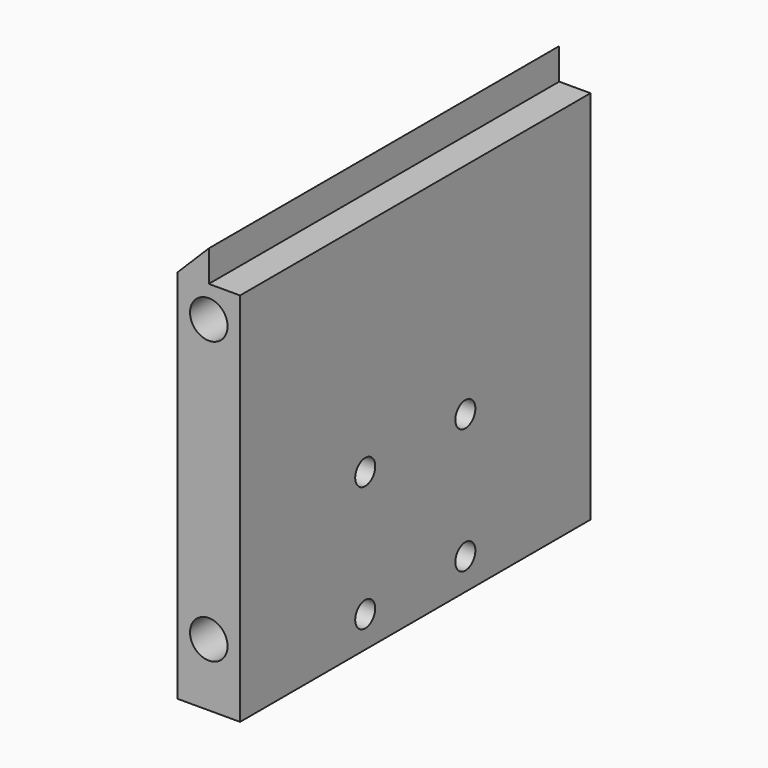
from build123d import *

# Parameters (mm, degrees)
F1_DEPTH  = 70
F3_R      = 2
F4_DEPTH  = 25
F6_R      = 3
F7_DEPTH  = 20
F8_R      = 3
F9_DEPTH  = 20
F10_R     = 3
F11_DEPTH = 20
F12_R     = 3
F13_DEPTH = 20
F2_R      = 2
F14_DEPTH = 10
F15_DEPTH = 25


with BuildPart() as f1:
    # F0 (on Front) → F1 (new body)
    with BuildSketch(Plane.XZ):
        Polygon((-5, 27.5), (-5, -32.5), (5, -32.5), (5, 27.5), (0, 27.5), (0, 32.5), align=None)
    extrude(amount=F1_DEPTH)

    # F3 (on face) → F4 (cut)
    with BuildSketch(Plane.YZ.offset(5)):
        with Locations((-45, -27.5)):
            Circle(F3_R)
        with Locations((-45, -7.5)):
            Circle(F3_R)
        with Locations((-25, -7.5)):
            Circle(F3_R)
        with Locations((-25, -27.5)):
            Circle(F3_R)
    extrude(amount=-F4_DEPTH, mode=Mode.SUBTRACT)

    # F6 (on face) → F7 (cut)
    with BuildSketch(Plane(origin=(0, 0, 0), x_dir=(-1, 0, 0), z_dir=(0, 1, 0))):
        with Locations((0, -22.5)):
            Circle(F6_R)
    extrude(amount=-F7_DEPTH, mode=Mode.SUBTRACT)

    # F8 (on face) → F9 (cut)
    with BuildSketch(Plane.XZ.offset(70)):
        with Locations((0, 22.5)):
            Circle(F8_R)
    extrude(amount=-F9_DEPTH, mode=Mode.SUBTRACT)

    # F10 (on face) → F11 (cut)
    with BuildSketch(Plane.XZ.offset(70)):
        with Locations((0, -22.5)):
            Circle(F10_R)
    extrude(amount=-F11_DEPTH, mode=Mode.SUBTRACT)

    # F12 (on face) → F13 (cut)
    with BuildSketch(Plane(origin=(0, 0, 0), x_dir=(-1, 0, 0), z_dir=(0, 1, 0))):
        with Locations((0, 22.5)):
            Circle(F12_R)
    extrude(amount=-F13_DEPTH, mode=Mode.SUBTRACT)

    # F2 (on face) → F14 (cut)
    with BuildSketch(Plane(origin=(0, 0, -32.5), x_dir=(1, 0, 0), z_dir=(0, 0, -1))):
        with Locations((-2.5, 35)):
            Circle(F2_R)
    extrude(amount=-F14_DEPTH, mode=Mode.SUBTRACT)

    # F3 (on face) → F15 (cut)
    with BuildSketch(Plane.YZ.offset(5)):
        with Locations((-45, -27.5)):
            Circle(F3_R)
        with Locations((-45, -7.5)):
            Circle(F3_R)
        with Locations((-25, -7.5)):
            Circle(F3_R)
        with Locations((-25, -27.5)):
            Circle(F3_R)
    extrude(amount=-F15_DEPTH, mode=Mode.SUBTRACT)


solid = f1.part
